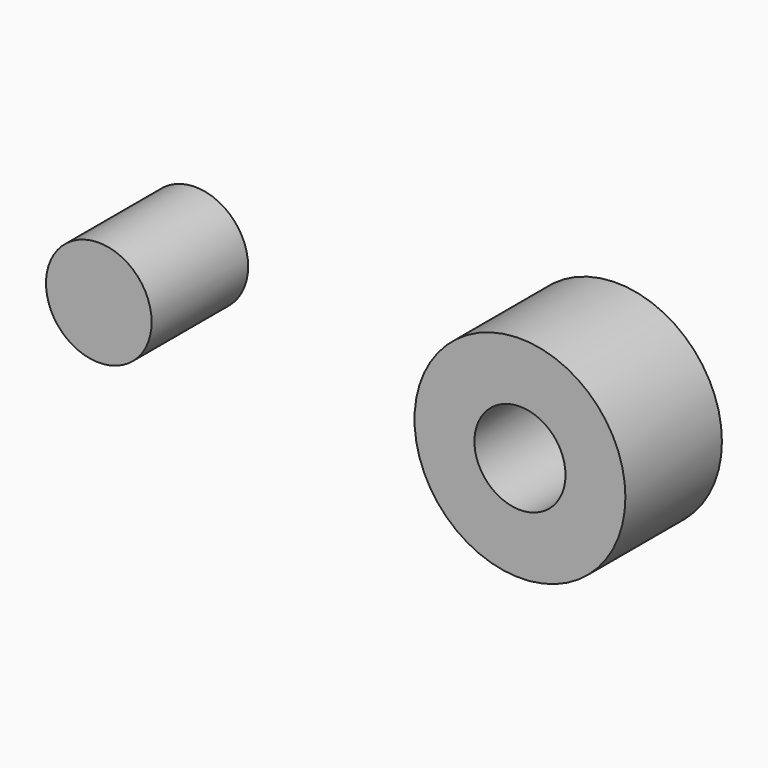
from build123d import *

# Parameters (mm, degrees)
F0_R     = 21.854058
F0_R_2   = 9.439269
F0_R_3   = 10.948748
F1_DEPTH = 25


with BuildPart() as f1:
    # F0 (on Front) → F1 (new body)
    with BuildSketch(Plane.XZ):
        with Locations((40.247846, 0)):
            Circle(F0_R)
        with Locations((40.247846, 0)):
            Circle(F0_R_2, mode=Mode.SUBTRACT)
        with Locations((-47.03664, 0)):
            Circle(F0_R_3)
    extrude(amount=F1_DEPTH)


solid = f1.part
